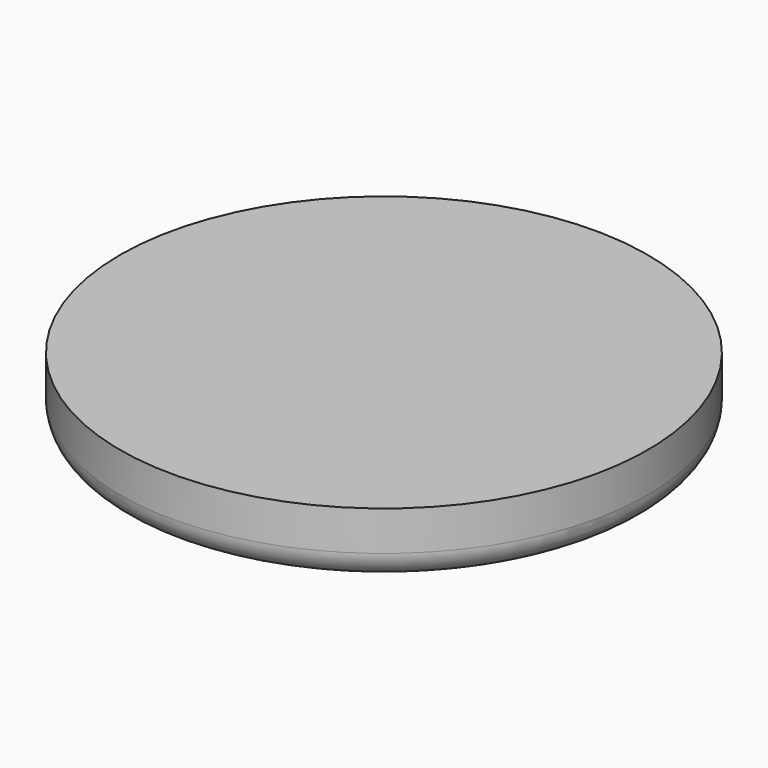
from build123d import *

# Parameters (mm, degrees)
F0_W = 50.8
F0_H = 12.7
F2_R = 5.08


with BuildPart() as f1:
    # F0 (on Front) → F1 (revolve)
    with BuildSketch(Plane.XZ):
        Rectangle(F0_W, F0_H)
    revolve(axis=Axis((25.4, 0, 0), (0, 0, 1)))

    # F2
    f2_edges = [f1.edges().sort_by_distance(p)[0] for p in [
        (76.2, 0, -6.35),
    ]]
    fillet(f2_edges, radius=F2_R)


solid = f1.part
